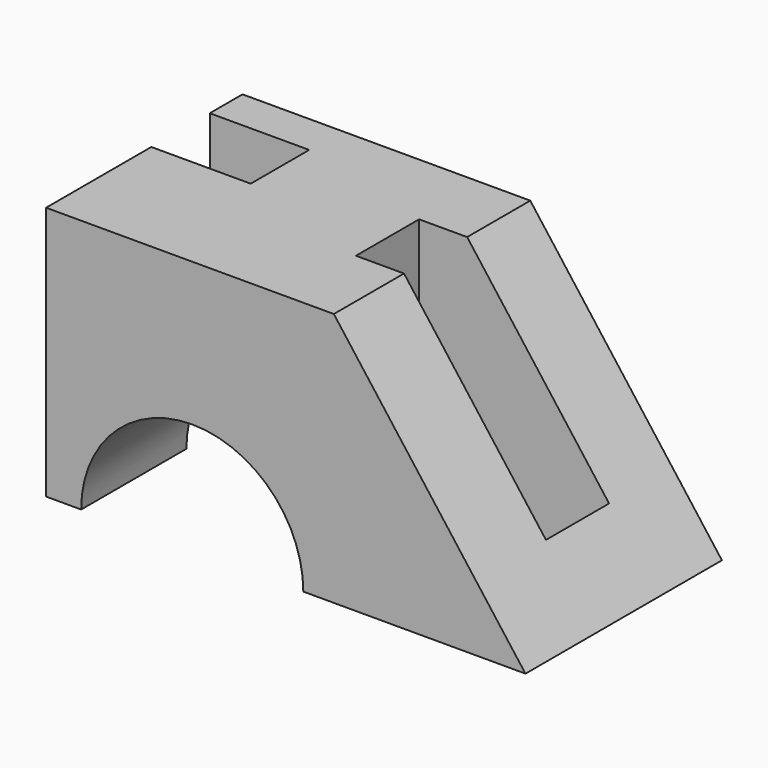
from build123d import *

# Parameters (mm, degrees)
F1_DEPTH      = 84
F2_W          = 34
F2_H          = 25
F3_DEPTH      = 94.8
F3_DEPTH_BACK = 151.8
F4_W          = 48.559
F4_H          = 27
F4_W_2        = 16.441
F5_DEPTH      = 360.4


with BuildPart() as f1:
    # F0 (on Front) → F1 (new body)
    with BuildSketch(Plane.XZ):
        with BuildLine():
            Line((0, 45.618019), (-82, 45.618019))
            Line((-82, 45.618019), (-82, -41.381981))
            Line((-82, -41.381981), (-70, -41.381981))
            ThreePointArc((-70, -41.381981), (-32, -3.381981), (6, -41.381981))
            Line((6, -41.381981), (82, -41.381981))
            Line((82, -41.381981), (16.441, 45.618019))
            Line((16.441, 45.618019), (0, 45.618019))
        make_face()
    extrude(amount=F1_DEPTH)

    # F2 (on Top) → F3 (cut, two sides)
    with BuildSketch(Plane.XY) as f3_sk:
        with Locations((-65, -26.5)):
            Rectangle(F2_W, F2_H)
    extrude(amount=F3_DEPTH, mode=Mode.SUBTRACT)
    extrude(f3_sk.sketch, amount=-F3_DEPTH_BACK, mode=Mode.SUBTRACT)

    # F4 (on face) → F5 (cut)
    with BuildSketch(Plane.XY.offset(45.618019)):
        with Locations((40.7205, -40.5)):
            Rectangle(F4_W, F4_H)
        with Locations((8.2205, -40.5)):
            Rectangle(F4_W_2, F4_H)
    extrude(amount=-F5_DEPTH, mode=Mode.SUBTRACT)


solid = f1.part
